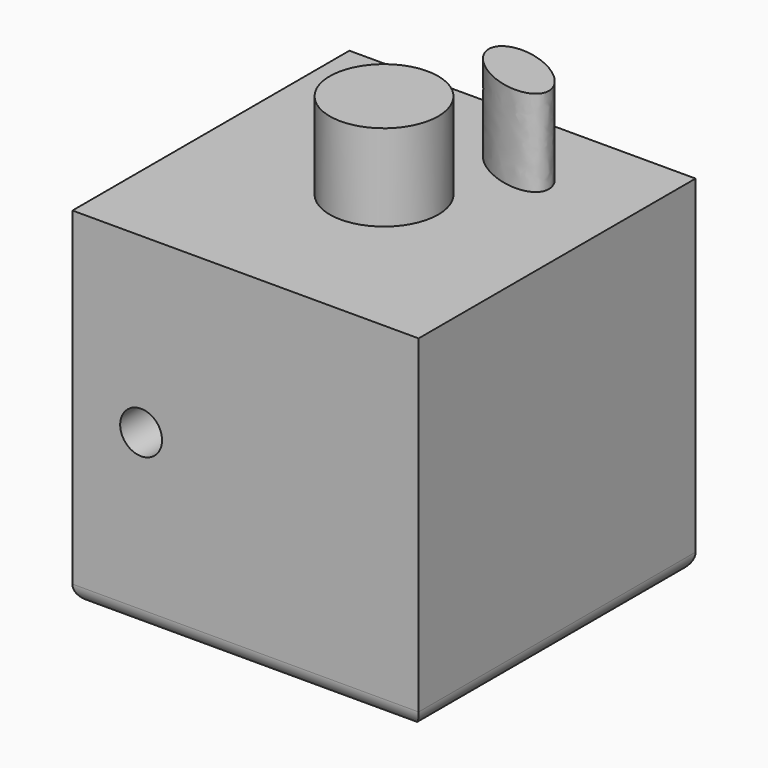
from build123d import *

# Parameters (mm, degrees)
F0_W      = 100
F0_H      = 100
F1_DEPTH  = 50
F2_R      = 10
F3_DEPTH  = 105
F4_R      = 6.050318
F5_DEPTH  = 105
F6_R      = 5
F7_R      = 15.676311
F8_DEPTH  = 25
F10_DEPTH = 25


with BuildPart() as f1:
    # F0 (on Front) → F1 (new body, symmetric)
    with BuildSketch(Plane.XZ):
        Rectangle(F0_W, F0_H)
    extrude(amount=F1_DEPTH, both=True)

    # F2 (on face) → F3 (cut)
    with BuildSketch(Plane.XY.offset(50)):
        with Locations((-27.335882, 25.35297)):
            Circle(F2_R)
    extrude(amount=-F3_DEPTH, mode=Mode.SUBTRACT)

    # F4 (on face) → F5 (cut)
    with BuildSketch(Plane(origin=(0, 50, 0), x_dir=(-1, 0, 0), z_dir=(0, 1, 0))):
        with Locations((30.168613, 0)):
            Circle(F4_R)
    extrude(amount=-F5_DEPTH, mode=Mode.SUBTRACT)

    # F6
    f6_edges = [f1.edges().sort_by_distance(p)[0] for p in [
        (0, 50, -50),
        (-50, 0, -50),
        (50, 0, -50),
        (0, -50, -50),
        (-37.335882, 25.35297, -50),
    ]]
    fillet(f6_edges, radius=F6_R)

    # F7 (on face) → F8 (join)
    with BuildSketch(Plane.XY.offset(50)):
        Circle(F7_R)
    extrude(amount=F8_DEPTH)

    # F9 (on face) → F10 (join)
    with BuildSketch(Plane.XY.offset(50)):
        with BuildLine():
            add(Edge.make_bspline(
                [(4.390738, 34.417719), (-0.534371, 24.049071), (18.924589, 21.160099), (38.383548, 18.271128), (23.849698, 31.528747), (9.315848, 44.786366), (4.390738, 34.417719)],
                knots=[0, 0, 0, 2.094395, 2.094395, 4.18879, 4.18879, 6.283185, 6.283185, 6.283185], degree=2, weights=[1, 0.5, 1, 0.5, 1, 0.5, 1]))
        make_face()
    extrude(amount=F10_DEPTH)


solid = f1.part
